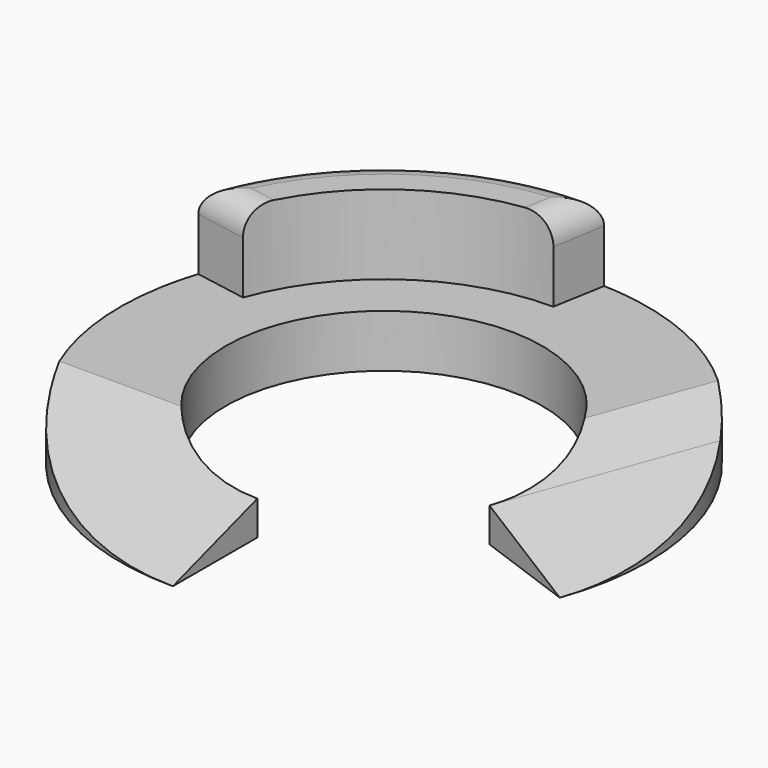
from build123d import *

# Parameters (mm, degrees)
F1_DEPTH = 1
F3_DEPTH = 25
F5_DEPTH = 25
F7_DEPTH = 1.5
F8_R     = 0.5


with BuildPart() as f1:
    # F0 (on Top) → F1 (new body)
    with BuildSketch(Plane.XY):
        with BuildLine():
            ThreePointArc((0, -3), (-1.7207293091, 2.4574561329), (2.8190778624, -1.02606043))
            Line((2.8190778624, -1.02606043), (4.6984631039, -1.7101007166))
            ThreePointArc((4.6984631039, -1.7101007166), (4.3301270189, 2.5), (0.8682408883, 4.9240387651))
            Line((0.8682408883, 4.9240387651), (0.6945927107, 3.939231012))
            ThreePointArc((0.6945927107, 3.939231012), (-2.2943057454, 3.2766081772), (-3.939231012, 0.6945927107))
            Line((-3.939231012, 0.6945927107), (-4.9240387651, 0.8682408883))
            ThreePointArc((-4.9240387651, 0.8682408883), (-3.8302222156, -3.2139380484), (0, -5))
            Line((0, -5), (0, -3))
        make_face()
        with BuildLine():
            Line((0.6945927107, 3.939231012), (0.8682408883, 4.9240387651))
            ThreePointArc((0.8682408883, 4.9240387651), (-2.8678821818, 4.0957602214), (-4.9240387651, 0.8682408883))
            Line((-4.9240387651, 0.8682408883), (-3.939231012, 0.6945927107))
            ThreePointArc((-3.939231012, 0.6945927107), (-2.2943057454, 3.2766081772), (0.6945927107, 3.939231012))
        make_face()
    extrude(amount=F1_DEPTH)

    # F2 (on face) → F3 (cut)
    with BuildSketch(Plane(origin=(0, 0, 0), x_dir=(0.9396926208, -0.3420201433, 0), z_dir=(-0.3420201433, -0.9396926208, 0))):
        Polygon((3, 0.6489407005), (5, 0), (5, 1), (3, 1), align=None)
        Polygon((1.9180543022, 1), (3, 0.6489407005), (3, 1), align=None)
    extrude(amount=-F3_DEPTH, mode=Mode.SUBTRACT)

    # F4 (on face) → F5 (cut)
    with BuildSketch(Plane.YZ):
        Polygon((-5, 1), (-5, 0), (-1.91805, 1), align=None)
    extrude(amount=-F5_DEPTH, mode=Mode.SUBTRACT)

    # F6 (on face) → F7 (join)
    with BuildSketch(Plane.XY.offset(1)):
        with BuildLine():
            ThreePointArc((-3.7702121506, 1.3722449997), (-2.3012895939, 3.2865821464), (0, 4.0121759682))
            Line((0, 4.0121759682), (0.1736481777, 4.9969837212))
            ThreePointArc((0.1736481777, 4.9969837212), (-2.8678821818, 4.0957602214), (-4.7550199037, 1.5458931774))
            Line((-4.7550199037, 1.5458931774), (-3.7702121506, 1.3722449997))
        make_face()
    extrude(amount=F7_DEPTH)

    # F8
    f8_edges = [f1.edges().sort_by_distance(p)[0] for p in [
        (-4.262616, 1.459069, 2.5),
        (0.086824, 4.50458, 2.5),
        (-2.867882, 4.09576, 2.5),
    ]]
    fillet(f8_edges, radius=F8_R)


solid = f1.part
